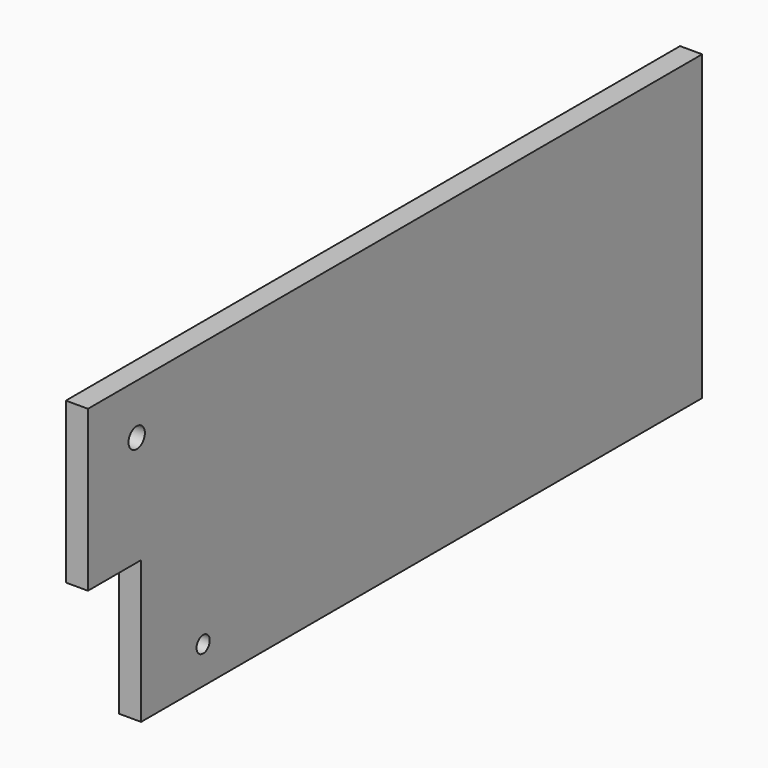
from build123d import *

# Parameters (mm, degrees)
SKETCH022_W      = 3
SKETCH022_H      = 41
PAD009_DEPTH     = 52
SKETCH023_W      = 3
SKETCH023_H      = 19.3
POCKET011_DEPTH  = 9
SHAPEBINDER008_R = 1.115297
POCKET034_DEPTH  = 5
SHAPEBINDER009_R = 1.382536
POCKET035_DEPTH  = 7.001


with BuildPart() as part:
    # Sketch022 (on ShapeBinder) → Pad009 (new body, symmetric)
    with BuildSketch(Plane(origin=(0, 0, 0), x_dir=(-1, 0, 0), z_dir=(0, 1, 0))):
        with Locations((0, 11.5)):
            Rectangle(SKETCH022_W, SKETCH022_H)
    extrude(amount=PAD009_DEPTH, both=True)

    # Sketch023 (on Face5 of Pad009) → Pocket011 (cut)
    with BuildSketch(Plane.XZ.offset(52)):
        with Locations((0, 0.65)):
            Rectangle(SKETCH023_W, SKETCH023_H)
    extrude(amount=-POCKET011_DEPTH, mode=Mode.SUBTRACT)

    # ShapeBinder008 → Pocket034 (cut)
    with BuildSketch(Plane(origin=(-1.5, -32.5, -4), x_dir=(0, 1, 0), z_dir=(-1, 0, 0))):
        Circle(SHAPEBINDER008_R)
    extrude(amount=-POCKET034_DEPTH, mode=Mode.SUBTRACT)

    # ShapeBinder009 → Pocket035 (cut, through all)
    with BuildSketch(Plane(origin=(-5.5, -43.75, 25.203825), x_dir=(0, 1, 0), z_dir=(-1, 0, 0))):
        Circle(SHAPEBINDER009_R)
    extrude(amount=-POCKET035_DEPTH, mode=Mode.SUBTRACT)


solid = part.part
